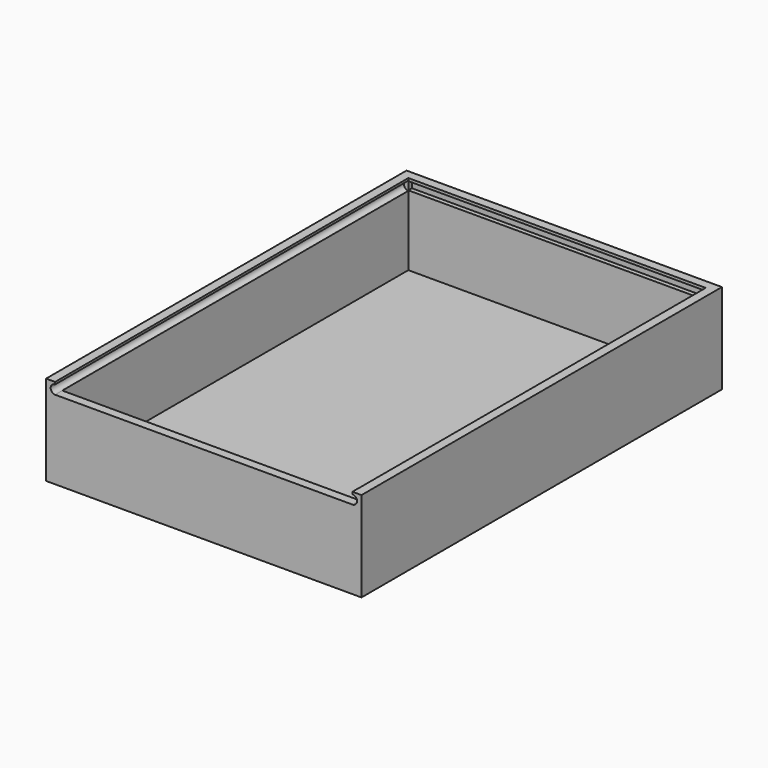
from build123d import *

# Parameters (mm, degrees)
F0_W     = 70
F0_H     = 100
F1_DEPTH = 20
F2_W     = 66
F2_H     = 96
F3_DEPTH = 18
F4_W     = 65.9895728827
F4_H     = 2
F5_DEPTH = 2.5
F7_DEPTH = 98
F8_W     = 66
F8_H     = 1.7997355314
F9_DEPTH = 1


with BuildPart() as f1:
    # F0 (on Top) → F1 (new body)
    with BuildSketch(Plane.XY):
        with Locations((35, -50)):
            Rectangle(F0_W, F0_H)
    extrude(amount=F1_DEPTH)

    # F2 (on face) → F3 (cut)
    with BuildSketch(Plane.XY.offset(20)):
        with Locations((35, -50)):
            Rectangle(F2_W, F2_H)
    extrude(amount=-F3_DEPTH, mode=Mode.SUBTRACT)

    # F4 (on face) → F5 (cut)
    with BuildSketch(Plane.XY.offset(20)):
        with Locations((34.9947864413, -99)):
            Rectangle(F4_W, F4_H)
    extrude(amount=-F5_DEPTH, mode=Mode.SUBTRACT)

    # F6 (on face) → F7 (cut)
    with BuildSketch(Plane.XZ.offset(100)):
        with BuildLine():
            Line((67.9895728827, 19.4992875666), (67.9895728827, 17.5))
            ThreePointArc((67.9895728827, 17.5), (68.7138689095, 17.7831631236), (69.016261954, 18.4996437833))
            ThreePointArc((69.016261954, 18.4996437833), (68.7138689095, 19.216124443), (67.9895728827, 19.4992875666))
        make_face()
        with BuildLine():
            ThreePointArc((2, 19.4998536759), (1.0120962274, 18.499926838), (2, 17.5))
            Line((2, 17.5), (2, 19.4998536759))
        make_face()
    extrude(amount=-F7_DEPTH, mode=Mode.SUBTRACT)

    # F8 (on face) → F9 (cut)
    with BuildSketch(Plane.XZ.offset(2)):
        with Locations((35, 18.4996437833)):
            Rectangle(F8_W, F8_H)
    extrude(amount=-F9_DEPTH, mode=Mode.SUBTRACT)


solid = f1.part
